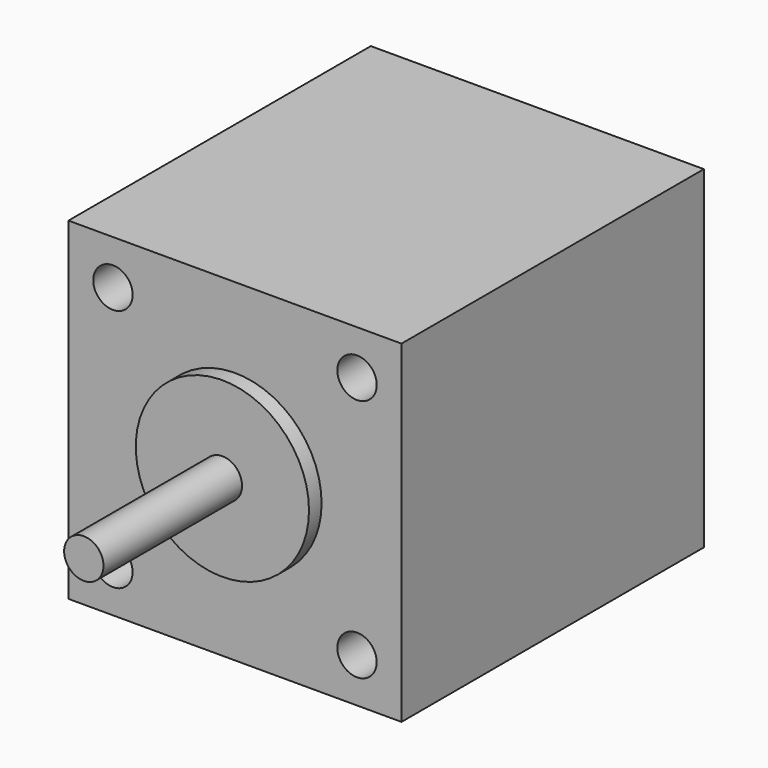
from build123d import *

# Parameters (mm, degrees)
F0_W     = 42.3
F0_H     = 42.3
F0_R     = 2.5
F0_R_2   = 11
F1_DEPTH = 48
F2_DEPTH = 5
F3_DEPTH = 2
F4_DEPTH = 24


with BuildPart() as f1:
    # F0 (on Front) → F1 (new body)
    with BuildSketch(Plane.XZ):
        Rectangle(F0_W, F0_H)
        with Locations((-15.5, -15.5)):
            Circle(F0_R, mode=Mode.SUBTRACT)
        with Locations((15.5, -15.5)):
            Circle(F0_R, mode=Mode.SUBTRACT)
        with Locations((-15.5, 15.5)):
            Circle(F0_R, mode=Mode.SUBTRACT)
        Circle(F0_R_2, mode=Mode.SUBTRACT)
        with Locations((15.5, 15.5)):
            Circle(F0_R, mode=Mode.SUBTRACT)
        Circle(F0_R_2)
        Circle(F0_R, mode=Mode.SUBTRACT)
        with Locations((-15.5, 15.5)):
            Circle(F0_R)
        Circle(F0_R)
        with Locations((15.5, 15.5)):
            Circle(F0_R)
        with Locations((-15.5, -15.5)):
            Circle(F0_R)
        with Locations((15.5, -15.5)):
            Circle(F0_R)
    extrude(amount=-F1_DEPTH)

    # F0 (on Front) → F2 (cut)
    with BuildSketch(Plane.XZ):
        with Locations((-15.5, 15.5)):
            Circle(F0_R)
        with Locations((15.5, 15.5)):
            Circle(F0_R)
        with Locations((15.5, -15.5)):
            Circle(F0_R)
        with Locations((-15.5, -15.5)):
            Circle(F0_R)
    extrude(amount=-F2_DEPTH, mode=Mode.SUBTRACT)

    # F0 (on Front) → F3 (join)
    with BuildSketch(Plane.XZ):
        Circle(F0_R_2)
        Circle(F0_R, mode=Mode.SUBTRACT)
    extrude(amount=F3_DEPTH)

    # F0 (on Front) → F4 (join)
    with BuildSketch(Plane.XZ):
        Circle(F0_R)
    extrude(amount=F4_DEPTH)


solid = f1.part
